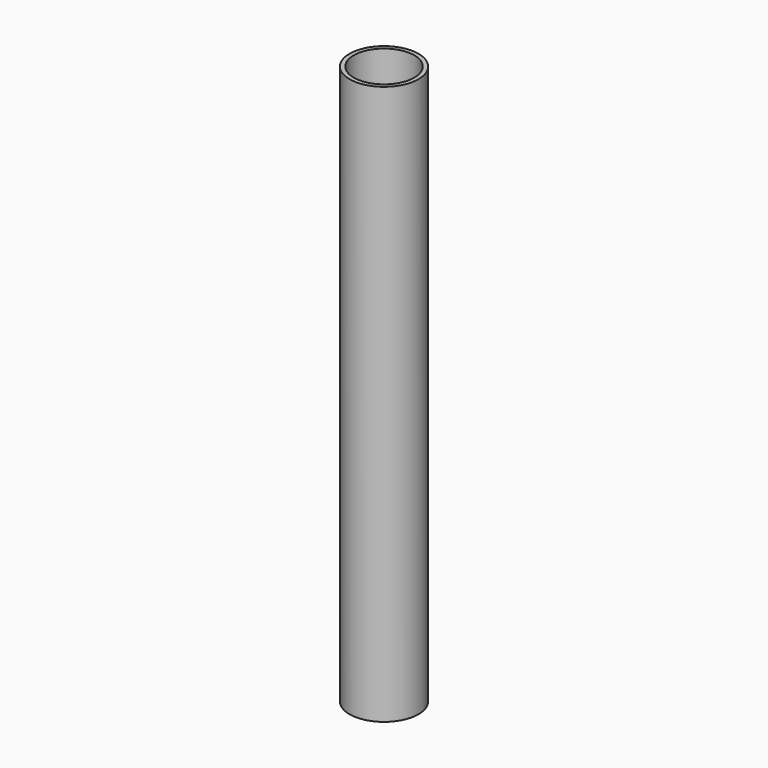
from build123d import *

# Parameters (mm, degrees)
F0_R     = 1.85
F1_DEPTH = 30
F2_R     = 1.625
F3_DEPTH = 10
F5_D     = 2.5
F5_DEPTH = 13.5
F5_TIP   = 0.7510757738


with BuildPart() as f1:
    # F0 (on Top) → F1 (new body)
    with BuildSketch(Plane.XY):
        Circle(F0_R)
    extrude(amount=F1_DEPTH)

    # F2 (on face) → F3 (cut)
    with BuildSketch(Plane.XY.offset(30)):
        Circle(F2_R)
    extrude(amount=-F3_DEPTH, mode=Mode.SUBTRACT)

    # F5
    with Locations(Plane(origin=(0, 0, 0), x_dir=(1, 0, 0), z_dir=(0, 0, -1))):
        with Locations((0, 0)):
            Hole(F5_D / 2, depth=F5_DEPTH)
            with Locations((0, 0, -(F5_DEPTH + F5_TIP / 2))):  # 118° drill point
                Cone(0, F5_D / 2, F5_TIP, mode=Mode.SUBTRACT)


solid = f1.part
